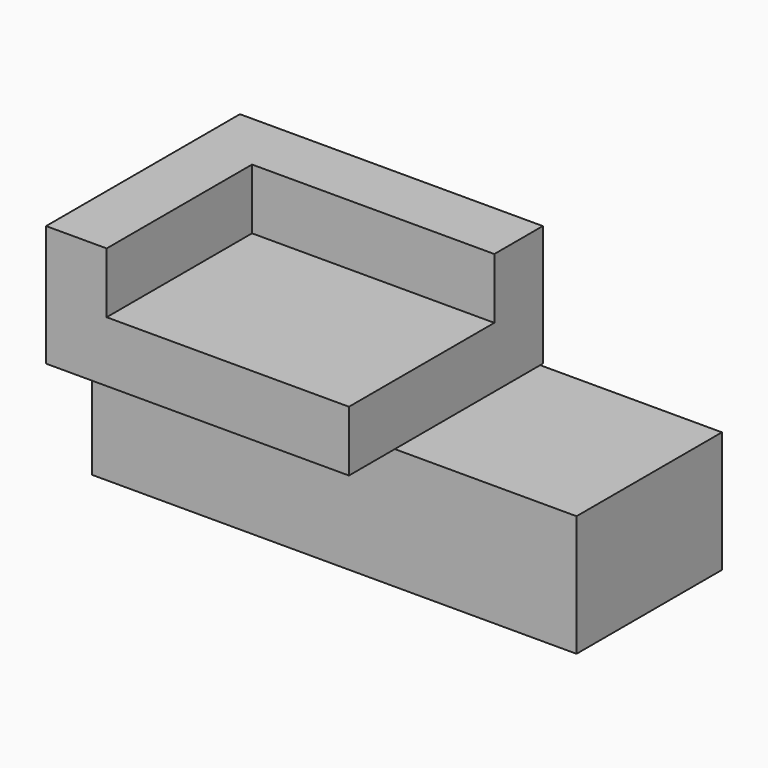
from build123d import *

# Parameters (mm, degrees)
F0_W     = 203.2
F0_H     = 50.8
F1_DEPTH = 76.2
F2_W     = 127
F2_H     = 101.6
F3_DEPTH = 25.4
F4_W     = 25.4
F4_H     = 25.4
F4_W_2   = 101.6
F4_H_2   = 76.2
F5_DEPTH = 25.4


with BuildPart() as f1:
    # F0 (on Front) → F1 (new body)
    with BuildSketch(Plane.XZ):
        with Locations((6.814852, -26.311482)):
            Rectangle(F0_W, F0_H)
    extrude(amount=F1_DEPTH)


with BuildPart() as f3:
    # F2 (on Top) → F3 (new body)
    with BuildSketch(Plane.XY):
        with Locations((-30.197584, -50.8)):
            Rectangle(F2_W, F2_H)
    extrude(amount=F3_DEPTH)

    # F4 (on face) → F5 (join)
    with BuildSketch(Plane.XY.offset(25.4)):
        with Locations((-80.997584, -12.7)):
            Rectangle(F4_W, F4_H)
        with Locations((-17.497584, -12.7)):
            Rectangle(F4_W_2, F4_H)
        with Locations((-80.997584, -63.5)):
            Rectangle(F4_W, F4_H_2)
    extrude(amount=F5_DEPTH)


solid = Compound([f1.part, f3.part])
